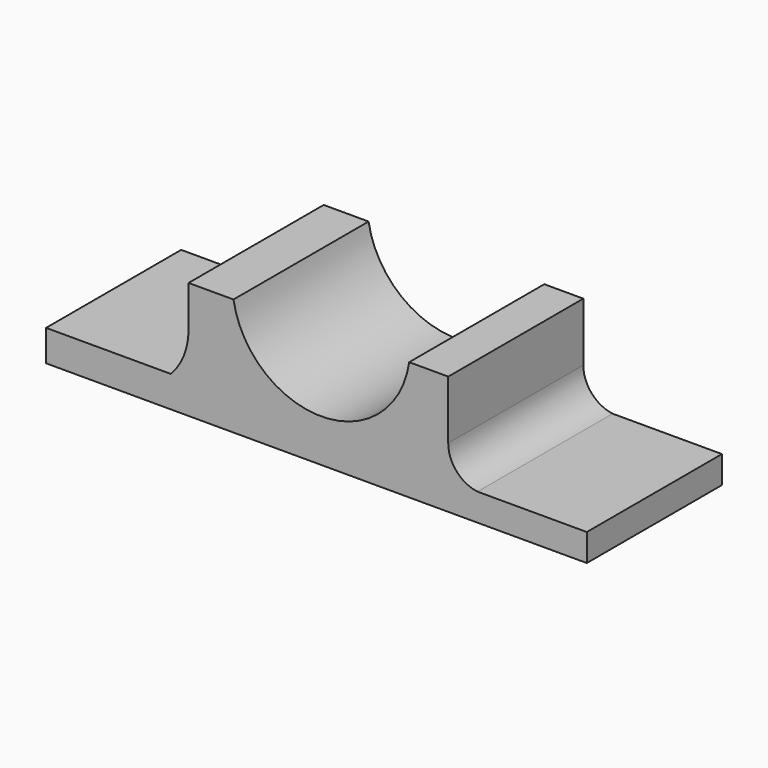
from build123d import *

# Parameters (mm, degrees)
F1_DEPTH = 25.4


with BuildPart() as f1:
    # F0 (on Front) → F1 (new body)
    with BuildSketch(Plane.XZ):
        with BuildLine():
            Line((-40.078405, -34.940146), (-40.078405, -39.637983))
            Line((-40.078405, -39.637983), (41.252863, -39.637983))
            Line((41.252863, -39.637983), (41.252863, -35.527375))
            Line((41.252863, -35.527375), (24.810439, -35.527375))
            ThreePointArc((24.810439, -35.527375), (21.664685, -33.864278), (20.40622, -30.535927))
            Line((20.40622, -30.535927), (20.40622, -21.727486))
            Line((20.40622, -21.727486), (14.533929, -21.727486))
            ThreePointArc((14.533929, -21.727486), (1.447167, -33.205207), (-11.891394, -22.021102))
            Line((-11.891394, -22.021102), (-18.644532, -22.021102))
            Line((-18.644532, -22.021102), (-18.644532, -28.18701))
            ThreePointArc((-18.644532, -28.18701), (-19.328686, -31.812883), (-21.287065, -34.940146))
            Line((-21.287065, -34.940146), (-40.078405, -34.940146))
        make_face()
    extrude(amount=F1_DEPTH)


solid = f1.part
